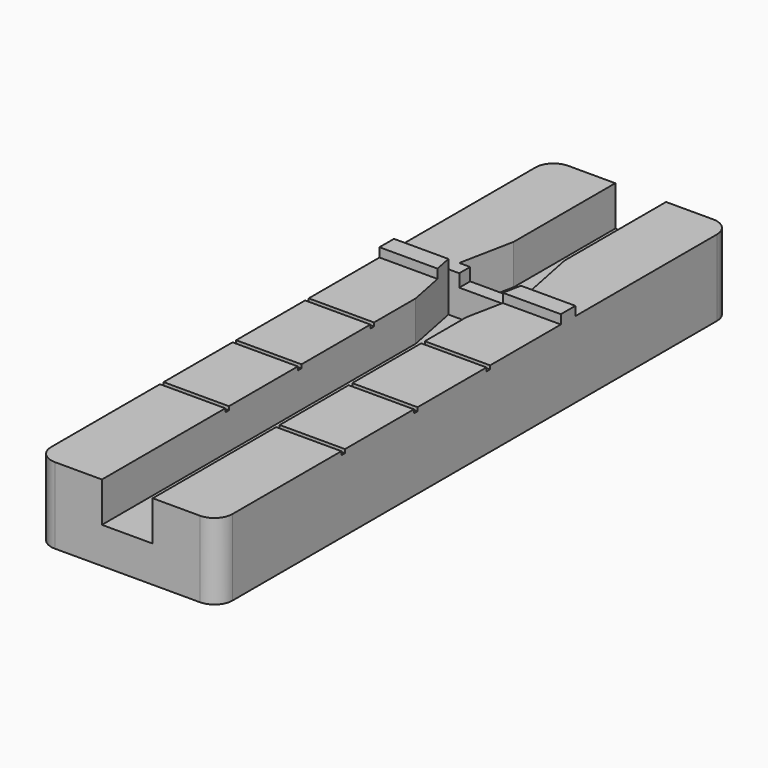
from build123d import *

# Parameters (mm, degrees)
F1_DEPTH  = 25
F2_W      = 2.8
F2_H      = 0.75
F3_DEPTH  = 1.5
F4_W      = 3.6
F4_H      = 1
F5_DEPTH  = 0.5
F6_W      = 10
F6_H      = 0.25
F7_DEPTH  = 0.2
F8_W      = 10
F8_H      = 14.625
F9_DEPTH  = 4.201
F10_R     = 1
F12_DEPTH = 2.701


with BuildPart() as f1:
    # F0 (on Front) → F1 (new body, symmetric)
    with BuildSketch(Plane.XZ):
        Polygon((-5, 4.2), (-5, 0), (5, 0), (5, 4.2), (1.4, 4.2), (1.4, 2), (-1.4, 2), (-1.4, 4.2), align=None)
    extrude(amount=F1_DEPTH, both=True)

    # F2 (on face) → F3 (join)
    with BuildSketch(Plane.XY.offset(2)):
        Rectangle(F2_W, F2_H)
    extrude(amount=F3_DEPTH)

    # F4 (on face) → F5 (join)
    with BuildSketch(Plane.XY.offset(4.2)):
        with Locations((3.2, -0.875)):
            Rectangle(F4_W, F4_H)
        with Locations((-3.2, -0.875)):
            Rectangle(F4_W, F4_H)
    extrude(amount=F5_DEPTH)

    # F6 (on face) → F7 (cut)
    with BuildSketch(Plane.XY.offset(4.2)):
        with Locations((0, -6.375)):
            Rectangle(F6_W, F6_H)
        with Locations((0, -11.375)):
            Rectangle(F6_W, F6_H)
        with Locations((0, -16.375)):
            Rectangle(F6_W, F6_H)
    extrude(amount=-F7_DEPTH, mode=Mode.SUBTRACT)

    # F8 (on face) → F9 (cut, through all)
    with BuildSketch(Plane.XY.offset(4.2)):
        with Locations((0, 17.6875)):
            Rectangle(F8_W, F8_H)
    extrude(amount=-F9_DEPTH, mode=Mode.SUBTRACT)

    # F10
    f10_edges = [f1.edges().sort_by_distance(p)[0] for p in [
        (-5, 10.375, 2.1),
        (5, 10.375, 2.1),
        (-5, -25, 2.1),
        (5, -25, 2.1),
    ]]
    fillet(f10_edges, radius=F10_R)

    # F11 (on face) → F12 (cut, through all)
    with BuildSketch(Plane.XY.offset(2)):
        Polygon((2, -0.375), (-2, -0.375), (-1.4, -3.375), (1.4, -3.375), align=None)
        Polygon((-1.4, 3.375), (-2, 0.375), (2, 0.375), (1.4, 3.375), align=None)
    extrude(amount=F12_DEPTH, mode=Mode.SUBTRACT)


solid = f1.part
